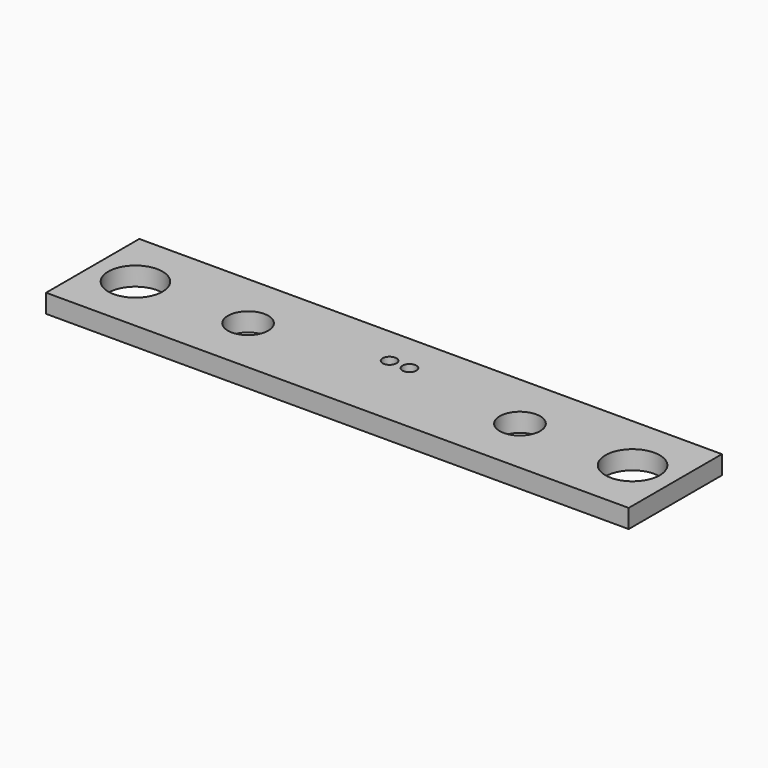
from build123d import *

# Parameters (mm, degrees)
F0_W     = 37.5
F0_H     = 15
F0_R     = 3.5
F0_R_2   = 2.6
F0_R_3   = 0.89
F1_DEPTH = 2.4


with BuildPart() as f1:
    # F0 (on Top) → F1 (new body)
    with BuildSketch(Plane.XY):
        with Locations((-50.939284, -7.5)):
            Rectangle(F0_W, F0_H)
        with Locations((-64.189284, -7.5)):
            Circle(F0_R, mode=Mode.SUBTRACT)
        with Locations((-49.689284, -7.5)):
            Circle(F0_R_2, mode=Mode.SUBTRACT)
        with Locations((-33.469284, -5)):
            Circle(F0_R_3, mode=Mode.SUBTRACT)
        with Locations((-13.439284, -7.5)):
            Rectangle(F0_W, F0_H)
        with Locations((-14.689284, -7.5)):
            Circle(F0_R_2, mode=Mode.SUBTRACT)
        with Locations((-30.909284, -5)):
            Circle(F0_R_3, mode=Mode.SUBTRACT)
        with Locations((-0.189284, -7.5)):
            Circle(F0_R, mode=Mode.SUBTRACT)
    extrude(amount=F1_DEPTH)


solid = f1.part
